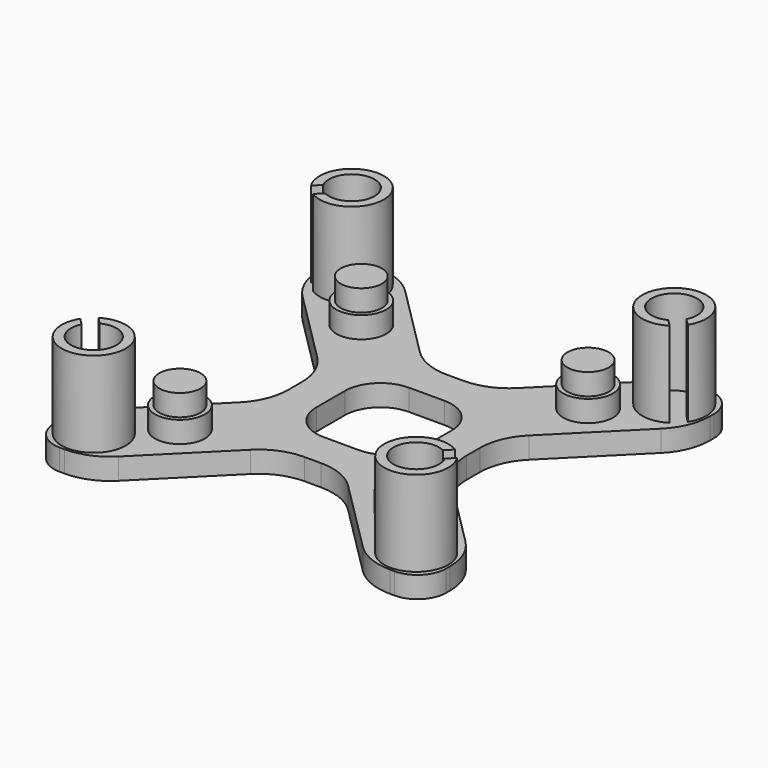
from build123d import *

# Parameters (mm, degrees)
F0_W      = 55
F0_H      = 55
F1_DEPTH  = 3
F2_R      = 3.5
F3_DEPTH  = 3
F4_R      = 2.9
F5_DEPTH  = 3
F6_R      = 4.5
F7_DEPTH  = 12
F8_R      = 3.2
F9_DEPTH  = 12
F10_R     = 4
F11_W     = 15
F11_H     = 15
F12_DEPTH = 20
F14_DEPTH = 25
F15_R     = 8
F16_R     = 5


with BuildPart() as f1:
    # F0 (on Top) → F1 (new body)
    with BuildSketch(Plane.XY):
        Rectangle(F0_W, F0_H)
    extrude(amount=F1_DEPTH)

    # F2 (on face) → F3 (join)
    with BuildSketch(Plane.XY.offset(3)):
        with Locations((-15.9099025767, 15.9099025767)):
            Circle(F2_R)
        with Locations((15.9099025767, 15.9099025767)):
            Circle(F2_R)
        with Locations((-15.9099025767, -15.9099025767)):
            Circle(F2_R)
        with Locations((15.9099025767, -15.9099025767)):
            Circle(F2_R)
    extrude(amount=F3_DEPTH)

    # F4 (on face) → F5 (join)
    with BuildSketch(Plane.XY.offset(6)):
        with Locations((-15.9099025767, 15.9099025767)):
            Circle(F4_R)
        with Locations((15.9099025767, 15.9099025767)):
            Circle(F4_R)
        with Locations((-15.9099025767, -15.9099025767)):
            Circle(F4_R)
        with Locations((15.9099025767, -15.9099025767)):
            Circle(F4_R)
    extrude(amount=F5_DEPTH)

    # F6 (on face) → F7 (join)
    with BuildSketch(Plane.XY.offset(3)):
        with Locations((-22.627416998, 22.627416998)):
            Circle(F6_R)
        with Locations((22.627416998, 22.627416998)):
            Circle(F6_R)
        with Locations((22.627416998, -22.627416998)):
            Circle(F6_R)
        with Locations((-22.627416998, -22.627416998)):
            Circle(F6_R)
    extrude(amount=F7_DEPTH)

    # F8 (on face) → F9 (cut)
    with BuildSketch(Plane.XY.offset(15)):
        with Locations((-22.627416998, -22.627416998)):
            Circle(F8_R)
        with Locations((22.627416998, -22.627416998)):
            Circle(F8_R)
        with Locations((-22.627416998, 22.627416998)):
            Circle(F8_R)
        with Locations((22.627416998, 22.627416998)):
            Circle(F8_R)
    extrude(amount=-F9_DEPTH, mode=Mode.SUBTRACT)

    # F10
    f10_edges = [f1.edges().sort_by_distance(p)[0] for p in [
        (27.5, -27.5, 1.5),
        (-27.5, -27.5, 1.5),
        (-27.5, 27.5, 1.5),
        (27.5, 27.5, 1.5),
    ]]
    fillet(f10_edges, radius=F10_R)

    # F11 (on face) → F12 (cut, symmetric)
    with BuildSketch(Plane.XY.offset(3)):
        Polygon((-12.5, 4.5), (-27.5, 19.5), (-27.5, -19.5), (-12.5, -4.5), align=None)
        Polygon((19.5, 27.5), (-19.5, 27.5), (-4.5, 12.5), (4.5, 12.5), align=None)
        Polygon((27.5, -19.5), (27.5, 19.5), (12.5, 4.5), (12.5, -4.5), align=None)
        Polygon((-4.5, -12.5), (-19.5, -27.5), (19.5, -27.5), (4.5, -12.5), align=None)
        Rectangle(F11_W, F11_H)
    extrude(amount=F12_DEPTH, both=True, mode=Mode.SUBTRACT)

    # F13 (on face) → F14 (cut)
    with BuildSketch(Plane.XY.offset(3)):
        Polygon((-26.8456843913, 19.823363167), (-25.4314708289, 18.4091496047), (-22.6030437041, 21.2375767294), (-24.0172572665, 22.6517902918), align=None)
        Polygon((22.6030437041, 21.2375767294), (25.4314708289, 18.4091496047), (26.8456843913, 19.823363167), (24.0172572665, 22.6517902918), align=None)
        Polygon((-25.4314708289, -18.4091496047), (-26.8456843913, -19.823363167), (-24.0172572665, -22.6517902918), (-22.6030437041, -21.2375767294), align=None)
        Polygon((26.8456843913, -19.823363167), (25.4314708289, -18.4091496047), (22.6030437041, -21.2375767294), (24.0172572665, -22.6517902918), align=None)
    extrude(amount=F14_DEPTH, mode=Mode.SUBTRACT)

    # F15
    f15_edges = [f1.edges().sort_by_distance(p)[0] for p in [
        (19.5, -27.5, 1.5),
        (4.5, -12.5, 1.5),
        (-4.5, -12.5, 1.5),
        (-19.5, -27.5, 1.5),
        (-27.5, -19.5, 1.5),
        (-12.5, -4.5, 1.5),
        (-12.5, 4.5, 1.5),
        (-27.5, 19.5, 1.5),
        (-19.5, 27.5, 1.5),
        (-4.5, 12.5, 1.5),
        (4.5, 12.5, 1.5),
        (19.5, 27.5, 1.5),
        (12.5, -4.5, 1.5),
        (12.5, 4.5, 1.5),
        (27.5, 19.5, 1.5),
        (27.5, -19.5, 1.5),
    ]]
    fillet(f15_edges, radius=F15_R)

    # F16
    f16_edges = [f1.edges().sort_by_distance(p)[0] for p in [
        (-7.5, 7.5, 1.5),
        (7.5, 7.5, 1.5),
        (7.5, -7.5, 1.5),
        (-7.5, -7.5, 1.5),
    ]]
    fillet(f16_edges, radius=F16_R)


solid = f1.part
